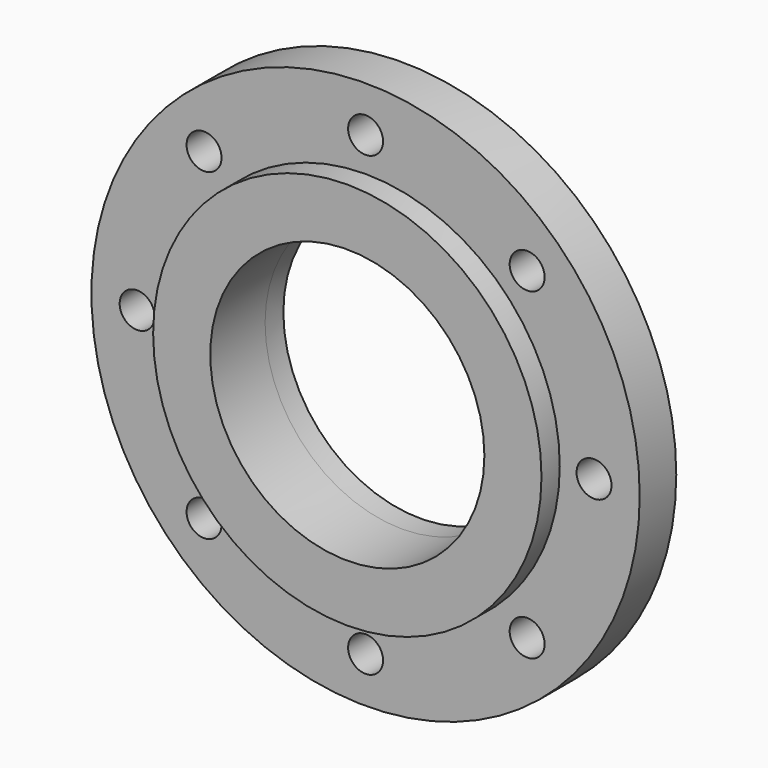
from build123d import *

# Parameters (mm, degrees)
F0_R     = 304.8
F0_R_2   = 19.4437
F0_R_3   = 152.4
F1_DEPTH = 25.4
F2_R     = 215.9
F2_R_2   = 152.4
F3_DEPTH = 25.4
F4_R     = 177.8
F4_R_2   = 152.4
F5_DEPTH = 25.4


with BuildPart() as f1:
    # F0 (on Front) → F1 (new body, symmetric)
    with BuildSketch(Plane.XZ):
        Circle(F0_R)
        with Locations((-179.605122, -179.605122)):
            Circle(F0_R_2, mode=Mode.SUBTRACT)
        with Locations((0, -254)):
            Circle(F0_R_2, mode=Mode.SUBTRACT)
        with Locations((179.605122, -179.605122)):
            Circle(F0_R_2, mode=Mode.SUBTRACT)
        with Locations((-254, 0)):
            Circle(F0_R_2, mode=Mode.SUBTRACT)
        with Locations((-179.605122, 179.605122)):
            Circle(F0_R_2, mode=Mode.SUBTRACT)
        Circle(F0_R_3, mode=Mode.SUBTRACT)
        with Locations((254, 0)):
            Circle(F0_R_2, mode=Mode.SUBTRACT)
        with Locations((0, 254)):
            Circle(F0_R_2, mode=Mode.SUBTRACT)
        with Locations((179.605122, 179.605122)):
            Circle(F0_R_2, mode=Mode.SUBTRACT)
    extrude(amount=F1_DEPTH, both=True)

    # F2 (on face) → F3 (join)
    with BuildSketch(Plane.XZ.offset(25.4)):
        Circle(F2_R)
        Circle(F2_R_2, mode=Mode.SUBTRACT)
    extrude(amount=F3_DEPTH)

    # F4 (on face) → F5 (join)
    with BuildSketch(Plane(origin=(0, 25.4, 0), x_dir=(-1, 0, 0), z_dir=(0, 1, 0))):
        Circle(F4_R)
        Circle(F4_R_2, mode=Mode.SUBTRACT)
    extrude(amount=F5_DEPTH)


solid = f1.part
